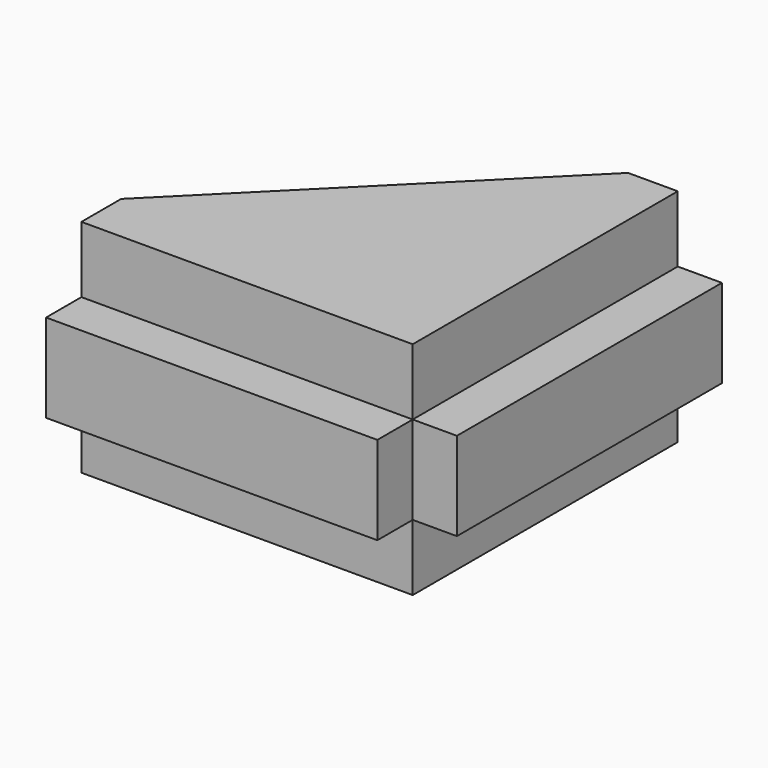
from build123d import *

# Parameters (mm, degrees)
PAD_DEPTH    = 20
SKETCH001_W  = 30
SKETCH001_H  = 8
PAD001_DEPTH = 4
SKETCH002_W  = 30
SKETCH002_H  = 8
PAD002_DEPTH = 4


with BuildPart() as part:
    # Sketch → Pad (new body)
    with BuildSketch(Plane.XY):
        Polygon((9.109291, 30.803959), (-16.390709, 5.303959), (-16.390709, 0.803959), (13.609291, 0.803959), (13.609291, 30.803959), align=None)
    extrude(amount=PAD_DEPTH)

    # Sketch001 (on Face4 of Pad) → Pad001 (join)
    with BuildSketch(Plane.YZ.offset(13.609291)):
        with Locations((15.803959, 10)):
            Rectangle(SKETCH001_W, SKETCH001_H)
    extrude(amount=PAD001_DEPTH)

    # Sketch002 (on Face9 of Pad001) → Pad002 (join)
    with BuildSketch(Plane.XZ.offset(-0.803959)):
        with Locations((-1.390709, 10)):
            Rectangle(SKETCH002_W, SKETCH002_H)
    extrude(amount=PAD002_DEPTH)


solid = part.part
